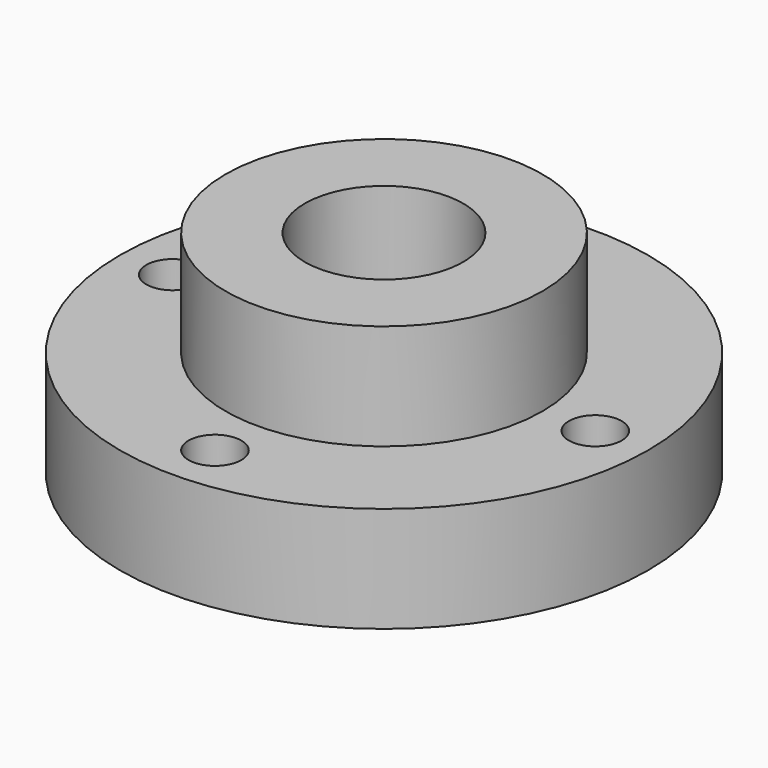
from build123d import *

# Parameters (mm, degrees)
F0_R     = 19.05
F1_DEPTH = 25.4
F0_R_2   = 25.4
F2_DEPTH = 12.7
F0_R_3   = 31.75
F3_DEPTH = 12.7
F4_D     = 6.35
F5_D     = 6.35
F6_D     = 19.05


with BuildPart() as f1:
    # F0 (on Top) → F1 (new body)
    with BuildSketch(Plane.XY):
        Circle(F0_R)
    extrude(amount=F1_DEPTH)

    # F0 (on Top) → F2 (join)
    with BuildSketch(Plane.XY):
        Circle(F0_R_2)
        Circle(F0_R, mode=Mode.SUBTRACT)
    extrude(amount=F2_DEPTH)

    # F0 (on Top) → F3 (join)
    with BuildSketch(Plane.XY):
        Circle(F0_R_3)
        Circle(F0_R_2, mode=Mode.SUBTRACT)
    extrude(amount=F3_DEPTH)

    # F4 (through all)
    with Locations(Plane(origin=(0, 0, 0), x_dir=(1, 0, 0), z_dir=(0, 0, -1))):
        with Locations((0, 25.4)):
            Hole(F4_D / 2)

    # F5 (through all)
    with Locations(Plane(origin=(0, 0, 0), x_dir=(1, 0, 0), z_dir=(0, 0, -1))):
        with Locations((-25.4, 0), (25.4, 0), (0, -25.4)):
            Hole(F5_D / 2)

    # F6 (through all)
    with Locations(Plane(origin=(0, 0, 0), x_dir=(1, 0, 0), z_dir=(0, 0, -1))):
        with Locations((0, 0)):
            Hole(F6_D / 2)


solid = f1.part
